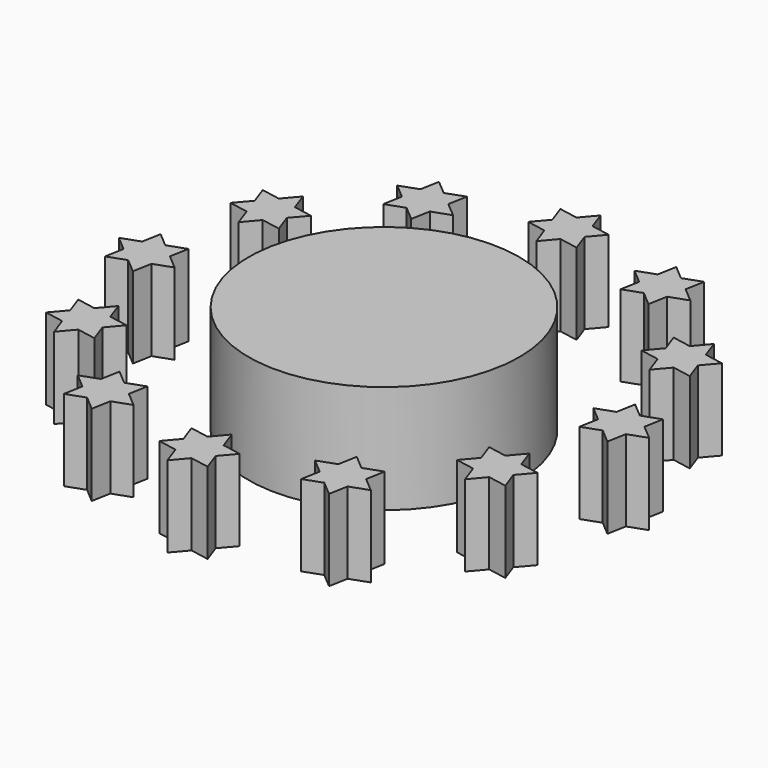
from build123d import *

# Parameters (mm, degrees)
F0_R     = 25
F1_DEPTH = 20
F2_DEPTH = 15
F3_COUNT = 12


with BuildPart() as f1:
    # F0 (on Top) → F1 (new body)
    with BuildSketch(Plane.XY):
        with Locations((0.6015881081, 0)):
            Circle(F0_R)
    extrude(amount=F1_DEPTH)


with BuildPart() as f2:
    # F0 (on Top) → F2 (new body)
    with BuildSketch(Plane.XY):
        Polygon((1.18719272, 39.9781712093), (4.6689422986, 39.3388342258), (3.4817495786, 42.6737863022), align=None)
        Polygon((-3.4817495786, 43.9524602693), (-5.7763064372, 41.2568451764), (-2.2945568586, 40.6175081929), align=None)
        Polygon((-2.2945568586, 40.6175081929), (-1.1073641387, 37.2825561164), (1.18719272, 39.9781712093), align=None)
        Polygon((3.4817495786, 42.6737863022), (5.7763064372, 45.3694013951), (2.2945568586, 46.0087383787), align=None)
        Polygon((2.2945568586, 46.0087383787), (1.1073641387, 49.3436904552), (-1.18719272, 46.6480753622), align=None)
        Polygon((-1.18719272, 46.6480753622), (-4.6689422986, 47.2874123458), (-3.4817495786, 43.9524602693), align=None)
        Polygon((-3.4817495786, 43.9524602693), (-2.2945568586, 40.6175081929), (1.18719272, 39.9781712093), (3.4817495786, 42.6737863022), (2.2945568586, 46.0087383787), (-1.18719272, 46.6480753622), align=None)
    extrude(amount=F2_DEPTH)


with BuildPart() as f3_1:
    # F3: instance of F2
    add(f2.part.rotate(Axis((0.6015881081, 0, 20), (0, 0, 1)), 1 * 360 / F3_COUNT))


with BuildPart() as f3_2:
    # F3: instance of F2
    add(f2.part.rotate(Axis((0.6015881081, 0, 20), (0, 0, 1)), 2 * 360 / F3_COUNT))


with BuildPart() as f3_3:
    # F3: instance of F2
    add(f2.part.rotate(Axis((0.6015881081, 0, 20), (0, 0, 1)), 3 * 360 / F3_COUNT))


with BuildPart() as f3_4:
    # F3: instance of F2
    add(f2.part.rotate(Axis((0.6015881081, 0, 20), (0, 0, 1)), 4 * 360 / F3_COUNT))


with BuildPart() as f3_5:
    # F3: instance of F2
    add(f2.part.rotate(Axis((0.6015881081, 0, 20), (0, 0, 1)), 5 * 360 / F3_COUNT))


with BuildPart() as f3_6:
    # F3: instance of F2
    add(f2.part.rotate(Axis((0.6015881081, 0, 20), (0, 0, 1)), 6 * 360 / F3_COUNT))


with BuildPart() as f3_7:
    # F3: instance of F2
    add(f2.part.rotate(Axis((0.6015881081, 0, 20), (0, 0, 1)), 7 * 360 / F3_COUNT))


with BuildPart() as f3_8:
    # F3: instance of F2
    add(f2.part.rotate(Axis((0.6015881081, 0, 20), (0, 0, 1)), 8 * 360 / F3_COUNT))


with BuildPart() as f3_9:
    # F3: instance of F2
    add(f2.part.rotate(Axis((0.6015881081, 0, 20), (0, 0, 1)), 9 * 360 / F3_COUNT))


with BuildPart() as f3_10:
    # F3: instance of F2
    add(f2.part.rotate(Axis((0.6015881081, 0, 20), (0, 0, 1)), 10 * 360 / F3_COUNT))


with BuildPart() as f3_11:
    # F3: instance of F2
    add(f2.part.rotate(Axis((0.6015881081, 0, 20), (0, 0, 1)), 11 * 360 / F3_COUNT))


solid = Compound([f1.part, f2.part, f3_1.part, f3_2.part, f3_3.part, f3_4.part, f3_5.part, f3_6.part, f3_7.part, f3_8.part, f3_9.part, f3_10.part, f3_11.part])
